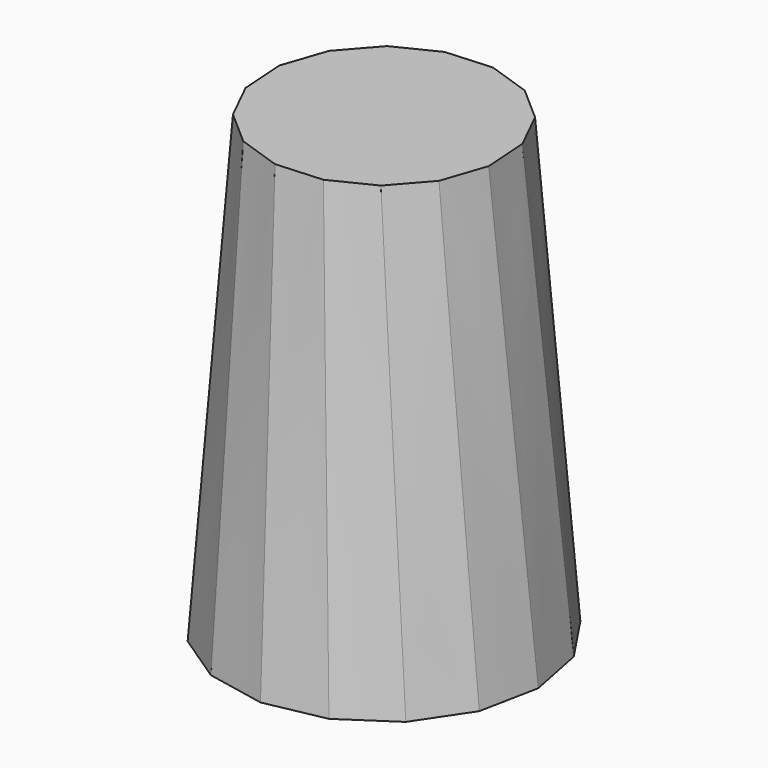
from build123d import *


with BuildPart() as f3:
    # F2 (on offset) → F3 section 0
    with BuildSketch(Plane.XY.offset(-25)):
        Polygon((2.870834, -3.25304), (2.224974, 0), (0.383392, 2.758257), (-2.373547, 4.601812), (-5.626125, 5.249999), (-8.879165, 4.604139), (-11.637422, 2.762557), (-13.480977, 0.005618), (-14.129165, -3.24696), (-13.483304, -6.5), (-11.641722, -9.258257), (-8.884783, -11.101812), (-5.632206, -11.749999), (-2.379165, -11.104139), (0.379092, -9.262557), (2.222647, -6.505618), align=None)
    # F0 (on Top) → F3 section 1
    with BuildSketch(Plane.XY):
        Polygon((-1.672216, -8.406797), (0, -6.5), (0.815226, -4.09842), (0.649353, -1.567676), (-0.472368, 0.706949), (-2.379165, 2.379165), (-4.780745, 3.194392), (-7.311489, 3.028518), (-9.586114, 1.906797), (-11.25833, 0), (-12.073557, -2.40158), (-11.907683, -4.932324), (-10.785962, -7.206949), (-8.879165, -8.879165), (-6.477585, -9.694392), (-3.946841, -9.528518), align=None)
    loft()


solid = f3.part
